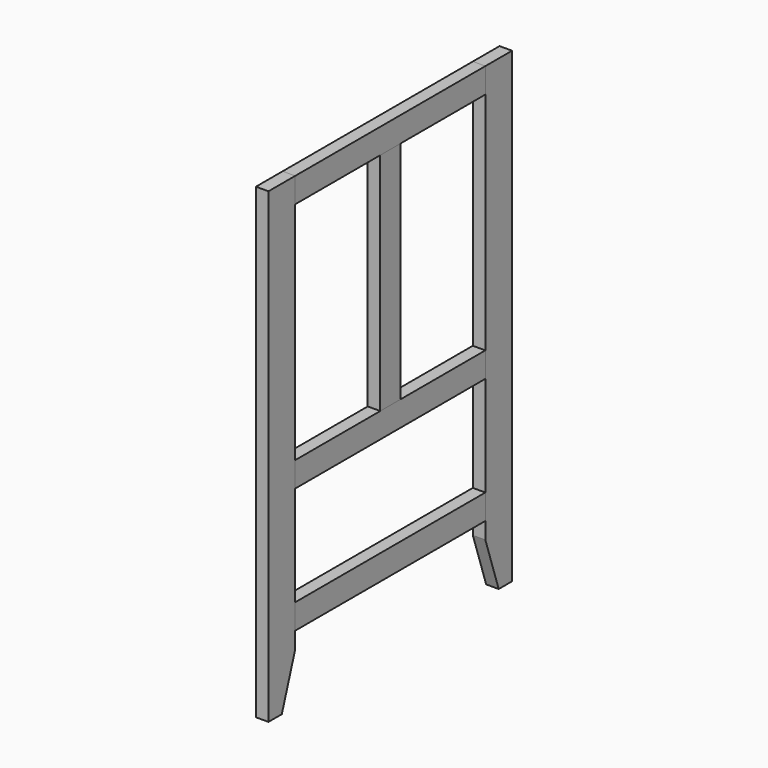
from build123d import *

# Parameters (mm, degrees)
F0_W     = 38.1
F0_H     = 342.9
F1_DEPTH = 19.05
F0_W_2   = 361.95
F0_H_2   = 38.1
F2_DEPTH = 19.05


with BuildPart() as f1:
    # F0 (on Right) → F1 (new body)
    with BuildSketch(Plane.YZ):
        Polygon((-431.8, 293.953022), (-431.8, 332.053022), (-482.6, 332.053022), (-482.6, -379.146978), (-457.2, -379.146978), (-431.8, -302.946978), (-431.8, -277.546978), (-431.8, -239.446978), (-431.8, -87.046978), (-431.8, -48.946978), align=None)
        with Locations((-250.825, 122.503022)):
            Rectangle(F0_W, F0_H)
        Polygon((-19.05, 332.053022), (-69.85, 332.053022), (-69.85, 293.953022), (-69.85, -48.946978), (-69.85, -87.046978), (-69.85, -239.446978), (-69.85, -277.546978), (-69.85, -302.946978), (-44.45, -379.146978), (-19.05, -379.146978), align=None)
    extrude(amount=F1_DEPTH)


with BuildPart() as f2:
    # F0 (on Right) → F2 (new body)
    with BuildSketch(Plane.YZ):
        Polygon((-69.85, 332.053022), (-431.8, 332.053022), (-431.8, 293.953022), (-269.875, 293.953022), (-231.775, 293.953022), (-69.85, 293.953022), align=None)
        Polygon((-269.875, -48.946978), (-431.8, -48.946978), (-431.8, -87.046978), (-69.85, -87.046978), (-69.85, -48.946978), (-231.775, -48.946978), align=None)
        with Locations((-250.825, -258.496978)):
            Rectangle(F0_W_2, F0_H_2)
    extrude(amount=F2_DEPTH)


solid = Compound([f1.part, f2.part])
